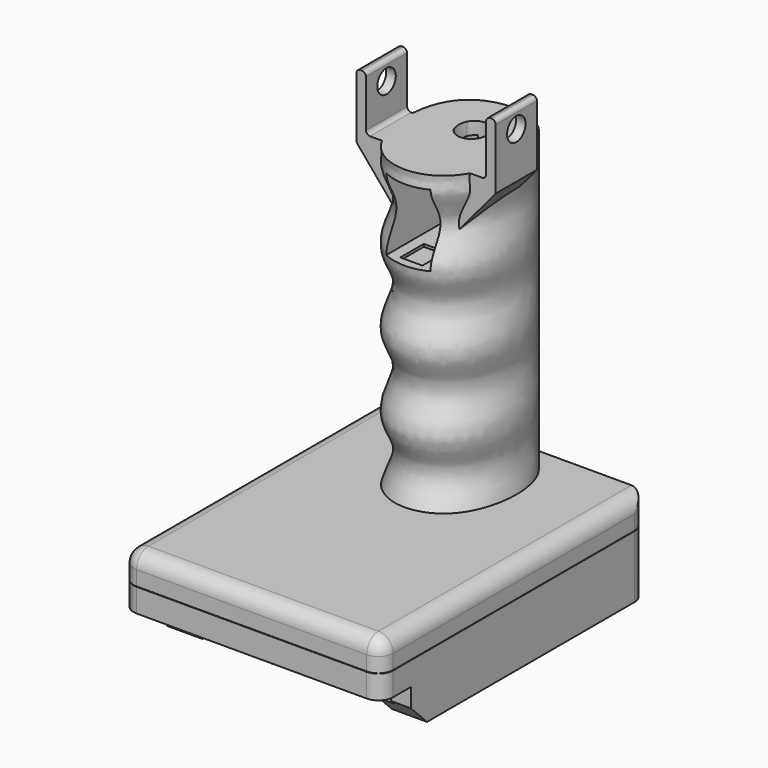
from build123d import *

# Parameters (mm, degrees)
SKETCH033_R       = 4
SKETCH012_R       = 4
PAD004_DEPTH      = 12.6
PAD002_DEPTH      = 80
PAD001_DEPTH      = 22.2
PAD_DEPTH         = 63
BOX003_W          = 70.6
BOX003_H          = 10
BOX003_DEPTH      = 10.6
BOX004_W          = 70.6
BOX004_H          = 90
BOX004_DEPTH      = 10
CHAMFER_SIZE      = 5.5
BOX_W             = 70.6
BOX_H             = 90
BOX_DEPTH         = 19
FILLET_R          = 4
FILLET002_R       = 4
BOX007_W          = 6
BOX007_H          = 8
BOX007_DEPTH      = 20.8
BOX006_W          = 12
BOX006_H          = 28
BOX006_DEPTH      = 19.5
BOX005_W          = 70.6
BOX005_H          = 90
BOX005_DEPTH      = 8
CYLINDER001_R     = 3.15
CYLINDER001_DEPTH = 40
PAD006_DEPTH      = 14
FILLET001_R       = 4
FILLET003_R       = 1.1


with BuildPart() as throughhole:
    # Sketch010 → AdditiveLoft section 0
    with BuildSketch(Plane.XY.offset(12.6)):
        with BuildLine():
            ThreePointArc((-3, 20), (-5, 18), (-3, 16))
            Line((-3, 16), (3, 16))
            ThreePointArc((3, 16), (5, 18), (3, 20))
            Line((3, 20), (-3, 20))
        make_face()
    # Sketch032 → AdditiveLoft section 1
    with BuildSketch(Plane(origin=(0, -1, 23.6), x_dir=(1, 0, 0), z_dir=(0, 0, 1))):
        with BuildLine():
            ThreePointArc((-3, 20), (-5, 18), (-3, 16))
            Line((-3, 16), (3, 16))
            ThreePointArc((3, 16), (5, 18), (3, 20))
            Line((3, 20), (-3, 20))
        make_face()
    # Sketch033 → AdditiveLoft section 2
    with BuildSketch(Plane(origin=(0, -4, 55), x_dir=(1, 0, 0), z_dir=(0, 0, 1))):
        with Locations((0, 18)):
            Circle(SKETCH033_R)
    # Sketch012 → AdditiveLoft section 3
    with BuildSketch(Plane(origin=(0, -6, 110), x_dir=(1, 0, 0), z_dir=(0, 0, 1))):
        with Locations((0, 18)):
            Circle(SKETCH012_R)
    loft()


with BuildPart() as body005:
    # Sketch009 → Pad004 (new body)
    with BuildSketch(Plane.XY):
        Polygon((-20.8, 9.7), (-20.8, 20), (0, 20), (20.8, 20), (20.8, 9.7), (20, 9.7), (20, 16), (-20, 16), (-20, 9.7), align=None)
    extrude(amount=PAD004_DEPTH)


with BuildPart() as body002:
    # Sketch002 → Pad002 (new body)
    with BuildSketch(Plane.XZ):
        Polygon((-24, 17), (-30, 23), (30, 23), (24, 17), (0, 17), align=None)
    extrude(amount=PAD002_DEPTH)


with BuildPart() as body002_1:
    # Body002 placement: moved
    add(body002.part.moved(Location((0, 26.7, 1))))


with BuildPart() as body001:
    # Sketch001 → Pad001 (new body)
    with BuildSketch(Plane.YZ):
        Polygon((-50.0878, 11.075291), (-48.8878, 16.032104), (-37.5878, 11.075291), (-33.504467, 16.760921), (-24.0878, 11.075291), (-24.0878, 8.075291), (-50.0878, 8.075291), align=None)
    extrude(amount=PAD001_DEPTH)


with BuildPart() as body001_1:
    # Body001 placement: moved
    add(body001.part.moved(Location((-11.1, -7.6, 1.1))))


with BuildPart() as battery:
    # Sketch → Pad (new body)
    with BuildSketch(Plane.XZ):
        Polygon((-25.75, 0), (-25.75, 6.4), (-30, 6.4), (-30, 7.3), (-28.6, 12.6), (28.6, 12.6), (30, 7.3), (30, 6.4), (25.75, 6.4), (25.75, 0), align=None)
    extrude(amount=PAD_DEPTH)


with BuildPart() as battery_1:
    # Body placement: moved
    add(battery.part.moved(Location((0, 9.7, 0))))


with BuildPart() as back:
    # Box003 → Box003 (new body)
    with BuildSketch(Plane(origin=(-35.3, -63.3, 2), x_dir=(1, 0, 0), z_dir=(0, 0, 1))):
        with Locations((35.3, 5)):
            Rectangle(BOX003_W, BOX003_H)
    extrude(amount=BOX003_DEPTH)


with BuildPart() as battery001:
    # Box004 → Box004 (new body)
    with BuildSketch(Plane(origin=(-35.3, -63.3, -8), x_dir=(1, 0, 0), z_dir=(0, 0, 1))):
        with Locations((35.3, 45)):
            Rectangle(BOX004_W, BOX004_H)
    extrude(amount=BOX004_DEPTH)

    # Fusion: union back
    add(back.part)

    # Chamfer
    chamfer_edges = [battery001.edges().sort_by_distance(p)[0] for p in [
        (0, -53.3, 2),
    ]]
    chamfer(chamfer_edges, length=CHAMFER_SIZE)

    # Fusion001: union Body001, battery
    add(body001_1.part)
    add(battery_1.part)


with BuildPart() as cut002:
    # Box → Box (new body)
    with BuildSketch(Plane(origin=(-35.3, -63.3, 0), x_dir=(1, 0, 0), z_dir=(0, 0, 1))):
        with Locations((35.3, 45)):
            Rectangle(BOX_W, BOX_H)
    extrude(amount=BOX_DEPTH)

    # Cut: cut battery001
    add(battery001.part, mode=Mode.SUBTRACT)

    # Fusion002: union Body002
    add(body002_1.part)

    # Cut001: cut Body005
    add(body005.part, mode=Mode.SUBTRACT)

    # Cut002: cut throughHole
    add(throughhole.part, mode=Mode.SUBTRACT)


with BuildPart() as main_bottom:
    # Fillet base: copy of Cut002
    add(cut002.part)

    # Fillet
    fillet_edges = [main_bottom.edges().sort_by_distance(p)[0] for p in [
        (35.3, 26.7, 10.5),
        (-35.3, 26.7, 10.5),
        (35.3, -63.3, 15.8),
        (-35.3, -63.3, 15.8),
    ]]
    fillet(fillet_edges, radius=FILLET_R)


with BuildPart() as main_bottom001:
    # Fillet002 base: copy of Cut002
    add(cut002.part)

    # Fillet002
    fillet002_edges = [main_bottom001.edges().sort_by_distance(p)[0] for p in [
        (35.3, 26.7, 10.5),
        (-35.3, 26.7, 10.5),
        (35.3, -63.3, 15.8),
        (-35.3, -63.3, 15.8),
    ]]
    fillet(fillet002_edges, radius=FILLET002_R)


with BuildPart() as cube001:
    # Box007 → Box007 (new body)
    with BuildSketch(Plane(origin=(-3, -9, 84.3), x_dir=(1, 0, 0), z_dir=(0, 0, 1))):
        with Locations((3, 4)):
            Rectangle(BOX007_W, BOX007_H)
    extrude(amount=BOX007_DEPTH)


with BuildPart() as obj1:
    # Box006 → Box006 (new body)
    with BuildSketch(Plane(origin=(-6, -12, 85), x_dir=(1, 0, 0), z_dir=(0, 0, 1))):
        with Locations((6, 14)):
            Rectangle(BOX006_W, BOX006_H)
    extrude(amount=BOX006_DEPTH)


with BuildPart() as additiveloft002:
    # Sketch010 → AdditiveLoft002 section 0
    with BuildSketch(Plane.XY.offset(12.6)):
        with BuildLine():
            ThreePointArc((-3, 20), (-5, 18), (-3, 16))
            Line((-3, 16), (3, 16))
            ThreePointArc((3, 16), (5, 18), (3, 20))
            Line((3, 20), (-3, 20))
        make_face()
    # Sketch032 → AdditiveLoft002 section 1
    with BuildSketch(Plane(origin=(0, -1, 23.6), x_dir=(1, 0, 0), z_dir=(0, 0, 1))):
        with BuildLine():
            ThreePointArc((-3, 20), (-5, 18), (-3, 16))
            Line((-3, 16), (3, 16))
            ThreePointArc((3, 16), (5, 18), (3, 20))
            Line((3, 20), (-3, 20))
        make_face()
    # Sketch033 → AdditiveLoft002 section 2
    with BuildSketch(Plane(origin=(0, -4, 55), x_dir=(1, 0, 0), z_dir=(0, 0, 1))):
        with Locations((0, 18)):
            Circle(SKETCH033_R)
    # Sketch012 → AdditiveLoft002 section 3
    with BuildSketch(Plane(origin=(0, -6, 110), x_dir=(1, 0, 0), z_dir=(0, 0, 1))):
        with Locations((0, 18)):
            Circle(SKETCH012_R)
    loft()


with BuildPart() as cube:
    # Box005 → Box005 (new body)
    with BuildSketch(Plane(origin=(-35.3, -63.3, 19.1), x_dir=(1, 0, 0), z_dir=(0, 0, 1))):
        with Locations((35.3, 45)):
            Rectangle(BOX005_W, BOX005_H)
    extrude(amount=BOX005_DEPTH)


with BuildPart() as cylinder001:
    # Cylinder001 → Cylinder001 (new body)
    with BuildSketch(Plane(origin=(-20, 3, 118), x_dir=(0, 0, -1), z_dir=(1, 0, 0))):
        Circle(CYLINDER001_R)
    extrude(amount=CYLINDER001_DEPTH)


with BuildPart() as cut007:
    # Sketch036 → Pad006 (new body)
    with BuildSketch(Plane.XZ):
        Polygon((16.35, 123), (18.95, 123), (18.95, 105.4), (0, 82.816269), (-18.95, 105.4), (-18.95, 123), (-16.35, 123), (-16.35, 108), (0, 108), (16.35, 108), align=None)
    extrude(amount=PAD006_DEPTH)


with BuildPart() as cut007_1:
    # Body009 placement: moved
    add(cut007.part.moved(Location((0, 10, 0))))

    # Cut007: cut Cylinder001
    add(cylinder001.part, mode=Mode.SUBTRACT)


with BuildPart() as body007:
    # Sketch035 → AdditiveLoft003 section 0
    with BuildSketch(Plane.XY.offset(18)):
        with BuildLine():
            add(Edge.make_bspline(
                [(11.25, 8.333333), (16.666667, 1.666667), (15, -25), (-15, -25), (-17.5, 15), (5.833333, 15), (11.25, 8.333333)],
                knots=[0, 0, 0, 0, 0.25, 0.5, 0.75, 1, 1, 1, 1], degree=3))
        make_face()
    # Sketch034 → AdditiveLoft003 section 1
    with BuildSketch(Plane.XY.offset(20)):
        with BuildLine():
            add(Edge.make_bspline(
                [(11.25, 8.333333), (16.666667, 1.666667), (15, -25), (-15, -25), (-17.5, 15), (5.833333, 15), (11.25, 8.333333)],
                knots=[0, 0, 0, 0, 0.25, 0.5, 0.75, 1, 1, 1, 1], degree=3))
        make_face()
    # Sketch023 → AdditiveLoft003 section 2
    with BuildSketch(Plane.XY.offset(27)):
        with BuildLine():
            add(Edge.make_bspline(
                [(10.833333, 8.833333), (15.833333, 2.666667), (12.5, -22), (-12.5, -22), (-17.5, 15), (5.833333, 15), (10.833333, 8.833333)],
                knots=[0, 0, 0, 0, 0.25, 0.5, 0.75, 1, 1, 1, 1], degree=3))
        make_face()
    # Sketch030 → AdditiveLoft003 section 3
    with BuildSketch(Plane.XY.offset(29.03)):
        with BuildLine():
            add(Edge.make_bspline(
                [(10.833333, 8.833333), (15.833333, 2.666667), (12.5, -22), (-12.5, -22), (-17.5, 15), (5.833333, 15), (10.833333, 8.833333)],
                knots=[0, 0, 0, 0, 0.25, 0.5, 0.75, 1, 1, 1, 1], degree=3))
        make_face()
    # Sketch015 → AdditiveLoft003 section 4
    with BuildSketch(Plane.XY.offset(37)):
        with BuildLine():
            add(Edge.make_bspline(
                [(11.25, 8.333333), (16.666667, 1.666667), (15, -25), (-15, -25), (-17.5, 15), (5.833333, 15), (11.25, 8.333333)],
                knots=[0, 0, 0, 0, 0.25, 0.5, 0.75, 1, 1, 1, 1], degree=3))
        make_face()
    # Sketch024 → AdditiveLoft003 section 5
    with BuildSketch(Plane.XY.offset(39.03)):
        with BuildLine():
            add(Edge.make_bspline(
                [(11.25, 8.333333), (16.666667, 1.666667), (15, -25), (-15, -25), (-17.5, 15), (5.833333, 15), (11.25, 8.333333)],
                knots=[0, 0, 0, 0, 0.25, 0.5, 0.75, 1, 1, 1, 1], degree=3))
        make_face()
    # Sketch020 → AdditiveLoft003 section 6
    with BuildSketch(Plane.XY.offset(47)):
        with BuildLine():
            add(Edge.make_bspline(
                [(10.833333, 8.833333), (15.833333, 2.666667), (12.5, -22), (-12.5, -22), (-17.5, 15), (5.833333, 15), (10.833333, 8.833333)],
                knots=[0, 0, 0, 0, 0.25, 0.5, 0.75, 1, 1, 1, 1], degree=3))
        make_face()
    # Sketch028 → AdditiveLoft003 section 7
    with BuildSketch(Plane.XY.offset(49.03)):
        with BuildLine():
            add(Edge.make_bspline(
                [(10.833333, 8.833333), (15.833333, 2.666667), (12.5, -22), (-12.5, -22), (-17.5, 15), (5.833333, 15), (10.833333, 8.833333)],
                knots=[0, 0, 0, 0, 0.25, 0.5, 0.75, 1, 1, 1, 1], degree=3))
        make_face()
    # Sketch017 → AdditiveLoft003 section 8
    with BuildSketch(Plane.XY.offset(57)):
        with BuildLine():
            add(Edge.make_bspline(
                [(11.25, 8.333333), (16.666667, 1.666667), (15, -25), (-15, -25), (-17.5, 15), (5.833333, 15), (11.25, 8.333333)],
                knots=[0, 0, 0, 0, 0.25, 0.5, 0.75, 1, 1, 1, 1], degree=3))
        make_face()
    # Sketch025 → AdditiveLoft003 section 9
    with BuildSketch(Plane.XY.offset(59.03)):
        with BuildLine():
            add(Edge.make_bspline(
                [(11.25, 8.333333), (16.666667, 1.666667), (15, -25), (-15, -25), (-17.5, 15), (5.833333, 15), (11.25, 8.333333)],
                knots=[0, 0, 0, 0, 0.25, 0.5, 0.75, 1, 1, 1, 1], degree=3))
        make_face()
    # Sketch021 → AdditiveLoft003 section 10
    with BuildSketch(Plane.XY.offset(67)):
        with BuildLine():
            add(Edge.make_bspline(
                [(10.833333, 8.833333), (15.833333, 2.666667), (12.5, -22), (-12.5, -22), (-17.5, 15), (5.833333, 15), (10.833333, 8.833333)],
                knots=[0, 0, 0, 0, 0.25, 0.5, 0.75, 1, 1, 1, 1], degree=3))
        make_face()
    # Sketch029 → AdditiveLoft003 section 11
    with BuildSketch(Plane.XY.offset(69.03)):
        with BuildLine():
            add(Edge.make_bspline(
                [(10.833333, 8.833333), (15.833333, 2.666667), (12.5, -22), (-12.5, -22), (-17.5, 15), (5.833333, 15), (10.833333, 8.833333)],
                knots=[0, 0, 0, 0, 0.25, 0.5, 0.75, 1, 1, 1, 1], degree=3))
        make_face()
    # Sketch018 → AdditiveLoft003 section 12
    with BuildSketch(Plane.XY.offset(77)):
        with BuildLine():
            add(Edge.make_bspline(
                [(11.25, 8.333333), (16.666667, 1.666667), (15, -25), (-15, -25), (-17.5, 15), (5.833333, 15), (11.25, 8.333333)],
                knots=[0, 0, 0, 0, 0.25, 0.5, 0.75, 1, 1, 1, 1], degree=3))
        make_face()
    # Sketch026 → AdditiveLoft003 section 13
    with BuildSketch(Plane.XY.offset(79.03)):
        with BuildLine():
            add(Edge.make_bspline(
                [(11.25, 8.333333), (16.666667, 1.666667), (15, -25), (-15, -25), (-17.5, 15), (5.833333, 15), (11.25, 8.333333)],
                knots=[0, 0, 0, 0, 0.25, 0.5, 0.75, 1, 1, 1, 1], degree=3))
        make_face()
    # Sketch022 → AdditiveLoft003 section 14
    with BuildSketch(Plane.XY.offset(87)):
        with BuildLine():
            add(Edge.make_bspline(
                [(10.833333, 8.833333), (15.833333, 2.666667), (12.5, -22), (-12.5, -22), (-17.5, 15), (5.833333, 15), (10.833333, 8.833333)],
                knots=[0, 0, 0, 0, 0.25, 0.5, 0.75, 1, 1, 1, 1], degree=3))
        make_face()
    # Sketch031 → AdditiveLoft003 section 15
    with BuildSketch(Plane.XY.offset(89.03)):
        with BuildLine():
            add(Edge.make_bspline(
                [(10.833333, 8.833333), (15.833333, 2.666667), (12.5, -22), (-12.5, -22), (-17.5, 15), (5.833333, 15), (10.833333, 8.833333)],
                knots=[0, 0, 0, 0, 0.25, 0.5, 0.75, 1, 1, 1, 1], degree=3))
        make_face()
    # Sketch019 → AdditiveLoft003 section 16
    with BuildSketch(Plane.XY.offset(97)):
        with BuildLine():
            add(Edge.make_bspline(
                [(11.25, 8.333333), (16.666667, 1.666667), (15, -25), (-15, -25), (-17.5, 15), (5.833333, 15), (11.25, 8.333333)],
                knots=[0, 0, 0, 0, 0.25, 0.5, 0.75, 1, 1, 1, 1], degree=3))
        make_face()
    # Sketch027 → AdditiveLoft003 section 17
    with BuildSketch(Plane.XY.offset(101)):
        with BuildLine():
            add(Edge.make_bspline(
                [(11.25, 8.333333), (16.666667, 1.666667), (15, -25), (-15, -25), (-17.5, 15), (5.833333, 15), (11.25, 8.333333)],
                knots=[0, 0, 0, 0, 0.25, 0.5, 0.75, 1, 1, 1, 1], degree=3))
        make_face()
    loft()


with BuildPart() as body007_1:
    # Body007 placement: moved
    add(body007.part.moved(Location((0, 12, 7))))


with BuildPart() as fusion004:
    # Fusion004 base: copy of Body007
    add(body007_1.part)

    # Fusion004: union Cut007
    add(cut007_1.part)


with BuildPart() as fillet003:
    # Fusion003 base: copy of Body007
    add(body007_1.part)

    # Fusion003: union Cube, Fusion004
    add(cube.part)
    add(fusion004.part)

    # Cut003: cut AdditiveLoft002
    add(additiveloft002.part, mode=Mode.SUBTRACT)

    # Cut004: cut obj1
    add(obj1.part, mode=Mode.SUBTRACT)

    # Cut008: cut Cube001
    add(cube001.part, mode=Mode.SUBTRACT)

    # Fillet001
    fillet001_edges = [fillet003.edges().sort_by_distance(p)[0] for p in [
        (-35.3, -18.3, 27.1),
        (0, -63.3, 27.1),
        (35.3, -18.3, 27.1),
        (-35.3, -63.3, 23.1),
        (-35.3, 26.7, 23.1),
        (35.3, 26.7, 23.1),
        (35.3, -63.3, 23.1),
    ]]
    fillet(fillet001_edges, radius=FILLET001_R)

    # Cut005: cut main_bottom001
    add(main_bottom001.part, mode=Mode.SUBTRACT)

    # Fillet003
    fillet003_edges = [fillet003.edges().sort_by_distance(p)[0] for p in [
        (18.95, 3, 123),
        (16.35, 3, 123),
        (16.35, 3, 108),
        (-16.35, 3, 108),
        (-16.35, 3, 123),
        (-18.95, 3, 123),
    ]]
    fillet(fillet003_edges, radius=FILLET003_R)


solid = Compound([main_bottom.part, fillet003.part])
